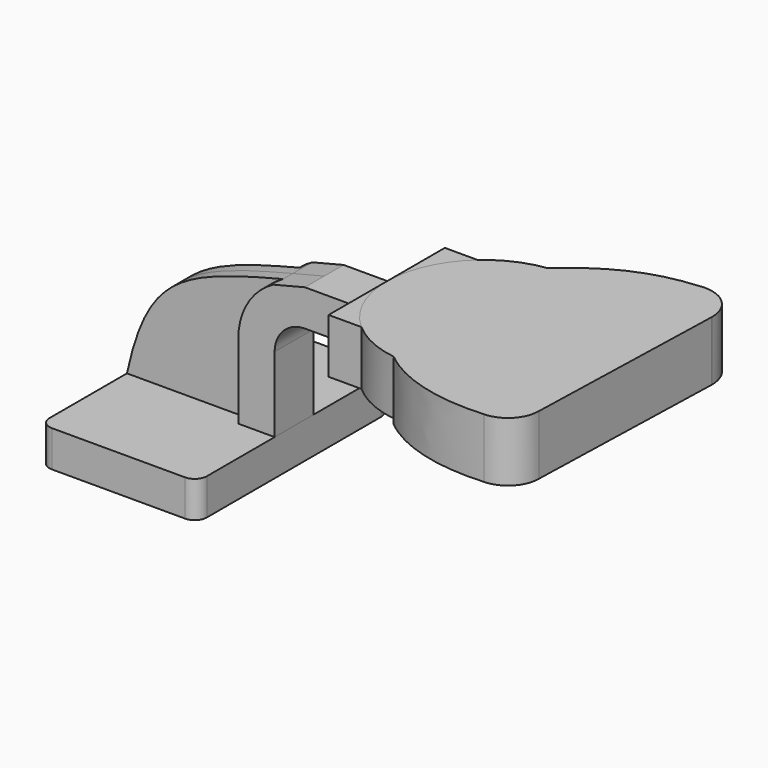
from build123d import *

# Parameters (mm, degrees)
F1_DEPTH = 63.5
F2_DEPTH = 12.7
F3_DEPTH = 38.1
F4_DEPTH = 6.35
F7_DEPTH = 31.242
F8_R     = 6.35


with BuildPart() as f1:
    # F0 (on Front) → F1 (new body, symmetric)
    with BuildSketch(Plane.XZ):
        Polygon((22.225, 9.525), (-41.275, 9.525), (-41.275, -9.525), (41.275, -9.525), (41.275, 9.525), align=None)
    extrude(amount=F1_DEPTH, both=True)

    # F8
    f8_edges = [f1.edges().sort_by_distance(p)[0] for p in [
        (-41.275, -63.5, 0),
        (-41.275, 63.5, 0),
        (41.275, 63.5, 0),
        (41.275, -63.5, 0),
    ]]
    fillet(f8_edges, radius=F8_R)


with BuildPart() as f2:
    # F0 (on Front) → F2 (new body, symmetric)
    with BuildSketch(Plane.XZ):
        with BuildLine():
            Line((22.225, 48.9346176877), (22.225, 9.525))
            Line((22.225, 9.525), (41.275, 9.525))
            Line((41.275, 9.525), (41.275, 48.9346176877))
            ThreePointArc((41.275, 48.9346176877), (45.9246798487, 60.159937839), (57.15, 64.8096176877))
            Line((57.15, 64.8096176877), (89.9035876796, 64.8096176877))
            Line((89.9035876796, 64.8096176877), (89.9035876796, 83.8596176877))
            Line((89.9035876796, 83.8596176877), (57.15, 83.8596176877))
            add(Edge.make_bspline(
                [(40.6362728198, 79.708834812), (45.7953878663, 81.0180571724), (51.2910836418, 82.3874351117), (57.15, 83.8596176877)],
                knots=[112.5810740655, 112.5810740655, 112.5810740655, 112.5810740655, 123.3414610412, 123.3414610412, 123.3414610412, 123.3414610412], degree=3))
            ThreePointArc((40.6362728198, 79.708834812), (27.1792013222, 66.8652298249), (22.225, 48.9346176877))
        make_face()
    extrude(amount=F2_DEPTH, both=True)

    # F0 (on Front) → F3 (join, symmetric)
    with BuildSketch(Plane.XZ):
        Polygon((89.9035876796, 92.075), (89.9035876796, 83.8596176877), (89.9035876796, 64.8096176877), (89.9035876796, 63.5), (140.7035876796, 63.5), (140.7035876796, 92.075), align=None)
    extrude(amount=F3_DEPTH, both=True)


with BuildPart() as f4:
    # F0 (on Front) → F4 (new body, symmetric)
    with BuildSketch(Plane.XZ):
        with BuildLine():
            add(Edge.make_bspline(
                [(-41.275, 9.525), (-30.4749280826, 58.8981551906), (-13.3412202281, 66.0110319487), (40.6362728198, 79.708834812)],
                knots=[0, 0, 0, 0, 112.5810740655, 112.5810740655, 112.5810740655, 112.5810740655], degree=3))
            Line((-41.275, 9.525), (22.225, 9.525))
            Line((22.225, 9.525), (22.225, 48.9346176877))
            ThreePointArc((22.225, 48.9346176877), (27.1792013222, 66.8652298249), (40.6362728198, 79.708834812))
        make_face()
    extrude(amount=F4_DEPTH, both=True)


with BuildPart() as f5:
    # F0 (on Front) → F5 (revolve)
    with BuildSketch(Plane.XZ):
        Polygon((89.9035876796, 92.075), (89.9035876796, 83.8596176877), (89.9035876796, 64.8096176877), (89.9035876796, 63.5), (140.7035876796, 63.5), (140.7035876796, 92.075), align=None)
    revolve(axis=Axis((140.7035876796, 0, 77.7875), (0, 0, -1)))

    # F6 (on face) → F7 (join)
    with BuildSketch(Plane.XY.offset(92.075)):
        with BuildLine():
            add(Edge.make_bspline(
                [(195.3957488993, 76.9903316021), (194.5858476043, 76.9454691333), (193.7831848728, 76.8929408928), (192.9875223741, 76.8327266294)],
                knots=[0, 0, 0, 0, 2.1660508841, 2.1660508841, 2.1660508841, 2.1660508841], degree=3))
            ThreePointArc((195.3957488993, 76.9903316021), (194.1890319004, 76.951314578), (192.9875223741, 76.8327266294))
        make_face()
        with BuildLine():
            Line((210.4584741588, -50.998903811), (213.6552396794, 58.1750413675))
            ThreePointArc((213.6552396794, 58.1750413675), (183.1334072241, 45.141016919), (192.9875223741, 76.8327266294))
            add(Edge.make_bspline(
                [(192.9875223741, 76.8327266294), (169.2447813082, 75.0359199858), (151.7353170053, 66.3951826409), (134.1264691023, 50.3724280854)],
                knots=[2.1660508841, 2.1660508841, 2.1660508841, 2.1660508841, 66.8014777865, 66.8014777865, 66.8014777865, 66.8014777865], degree=3))
            ThreePointArc((134.1264691023, 50.3724280854), (174.2186766417, 38.175631126), (191.5035876796, 0))
            ThreePointArc((191.5035876796, 0), (174.1050238816, -38.2751101846), (133.8270498984, -50.332427203))
            add(Edge.make_bspline(
                [(194.6815417818, -67.1222711654), (173.3915358782, -68.63476336), (150.6744772196, -64.2580837011), (133.8270498984, -50.332427203)],
                knots=[0, 0, 0, 0, 63.1281873862, 63.1281873862, 63.1281873862, 63.1281873862], degree=3))
            ThreePointArc((194.6815417818, -67.1222711654), (182.8045083954, -39.7197796199), (210.4584741588, -50.998903811))
        make_face()
        with BuildLine():
            ThreePointArc((213.6552396794, 58.1750413675), (213.661113357, 58.4425337087), (213.6630713893, 58.7100833654))
            ThreePointArc((213.6630713893, 58.7100833654), (208.3134800534, 71.6316017219), (195.3957488993, 76.9903316021))
            add(Edge.make_bspline(
                [(195.3957488993, 76.9903316021), (194.5858476043, 76.9454691333), (193.7831848728, 76.8929408928), (192.9875223741, 76.8327266294)],
                knots=[0, 0, 0, 0, 2.1660508841, 2.1660508841, 2.1660508841, 2.1660508841], degree=3))
            ThreePointArc((192.9875223741, 76.8327266294), (183.1334072241, 45.141016919), (213.6552396794, 58.1750413675))
        make_face()
        with BuildLine():
            ThreePointArc((194.6815417818, -67.1222711654), (205.8580980823, -62.2780280021), (210.4584741588, -50.998903811))
            ThreePointArc((210.4584741588, -50.998903811), (182.8045083954, -39.7197796199), (194.6815417818, -67.1222711654))
        make_face()
    extrude(amount=-F7_DEPTH)


solid = Compound([f1.part, f2.part, f4.part, f5.part])
